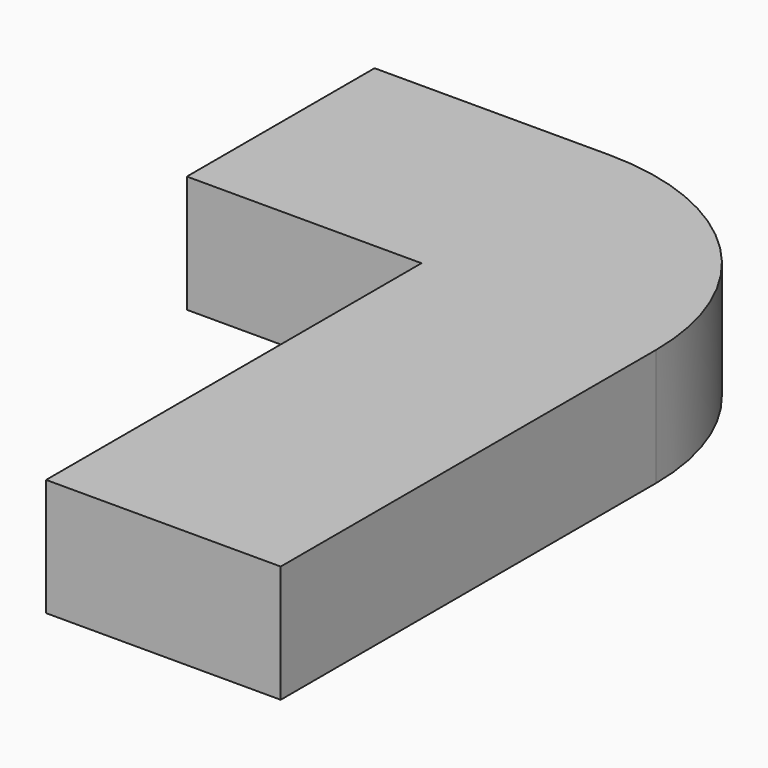
from build123d import *

# Parameters (mm, degrees)
F1_DEPTH = 1000


with BuildPart() as f1:
    # F0 (on Top) → F1 (new body)
    with BuildSketch(Plane.XY):
        with BuildLine():
            ThreePointArc((3000, -1000), (2414.213562, 414.213562), (1000, 1000))
            Line((1000, 1000), (-1000, 1000))
            Line((-1000, 1000), (-1000, -1000))
            Line((-1000, -1000), (1000, -1000))
            Line((1000, -1000), (1000, -5000))
            Line((1000, -5000), (3000, -5000))
            Line((3000, -5000), (3000, -1000))
        make_face()
    extrude(amount=F1_DEPTH)


solid = f1.part
